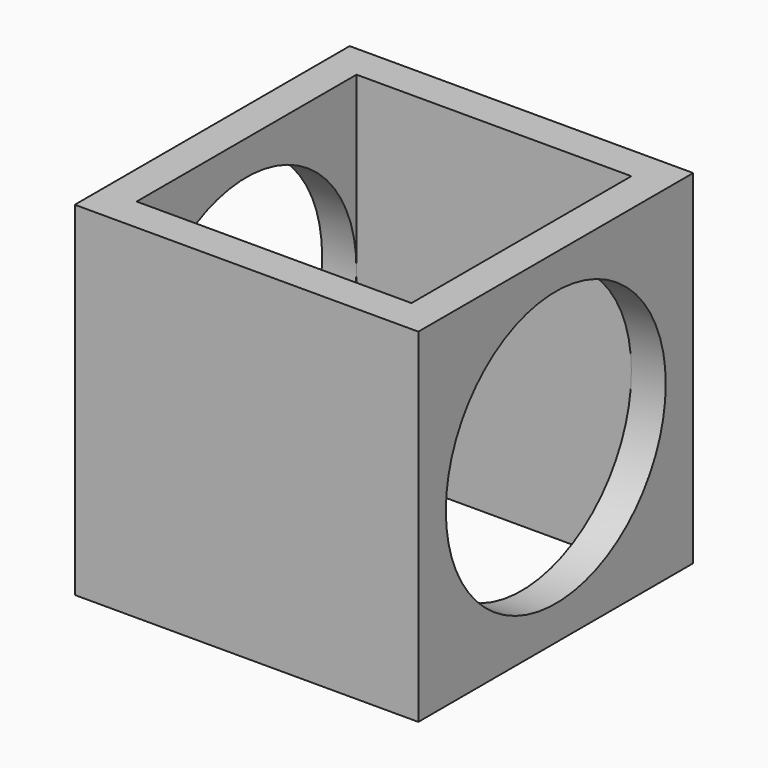
from build123d import *

# Parameters (mm, degrees)
F0_W     = 10
F0_H     = 10
F1_DEPTH = 5
F2_T     = -1
F4_D     = 8
F5_D     = 8


with BuildPart() as f1:
    # F0 (on Front) → F1 (new body, symmetric)
    with BuildSketch(Plane.XZ):
        Rectangle(F0_W, F0_H)
    extrude(amount=F1_DEPTH, both=True)

    # F2
    f2_openings = [f1.faces().sort_by_distance(p)[0] for p in [
        (0, 0, 5),
        (0, 0, -5),
    ]]
    offset(amount=F2_T, openings=f2_openings)

    # F4 (through all)
    with Locations(Plane.YZ):
        with Locations((0, 0)):
            Hole(F4_D / 2)

    # F5 (through all)
    with Locations(Plane(origin=(0, 0, 0), x_dir=(0, 1, 0), z_dir=(-1, 0, 0))):
        with Locations((0, 0)):
            Hole(F5_D / 2)


solid = f1.part
